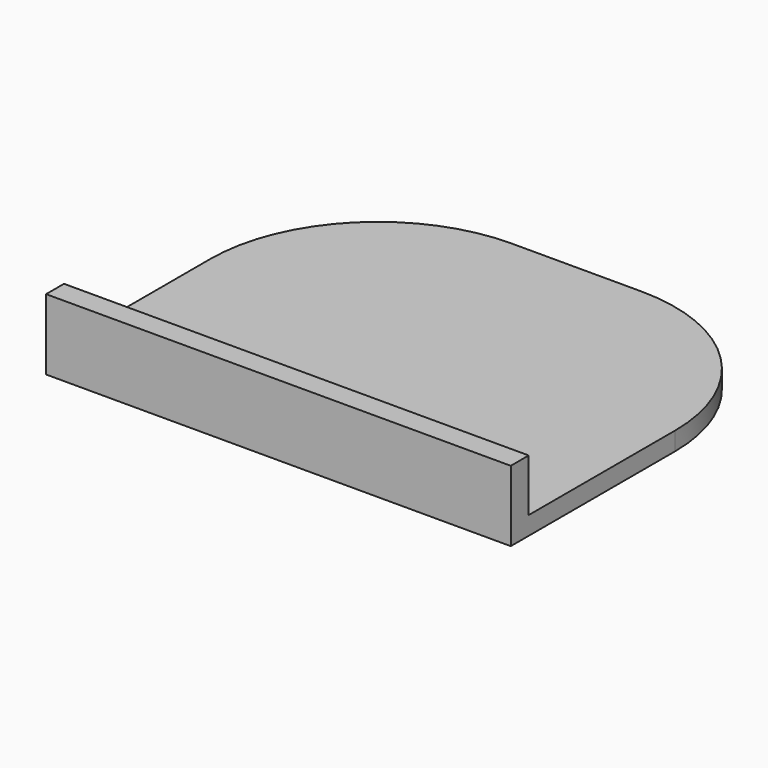
from build123d import *

# Parameters (mm, degrees)
F1_DEPTH = 1.55
F0_W     = 39.4
F0_H     = 1.9
F2_DEPTH = 6


with BuildPart() as f1:
    # F0 (on Top) → F1 (new body)
    with BuildSketch(Plane.XY):
        with BuildLine():
            Line((0, 17.4), (0, 1.9))
            Line((0, 1.9), (39.4, 1.9))
            Line((39.4, 1.9), (39.4, 17.4))
            ThreePointArc((39.4, 17.4), (35.240916, 27.440916), (25.2, 31.6))
            Line((25.2, 31.6), (14.2, 31.6))
            ThreePointArc((14.2, 31.6), (4.159084, 27.440916), (0, 17.4))
        make_face()
    extrude(amount=F1_DEPTH)

    # F0 (on Top) → F2 (join)
    with BuildSketch(Plane.XY):
        with Locations((19.7, 0.95)):
            Rectangle(F0_W, F0_H)
    extrude(amount=F2_DEPTH)


solid = f1.part
